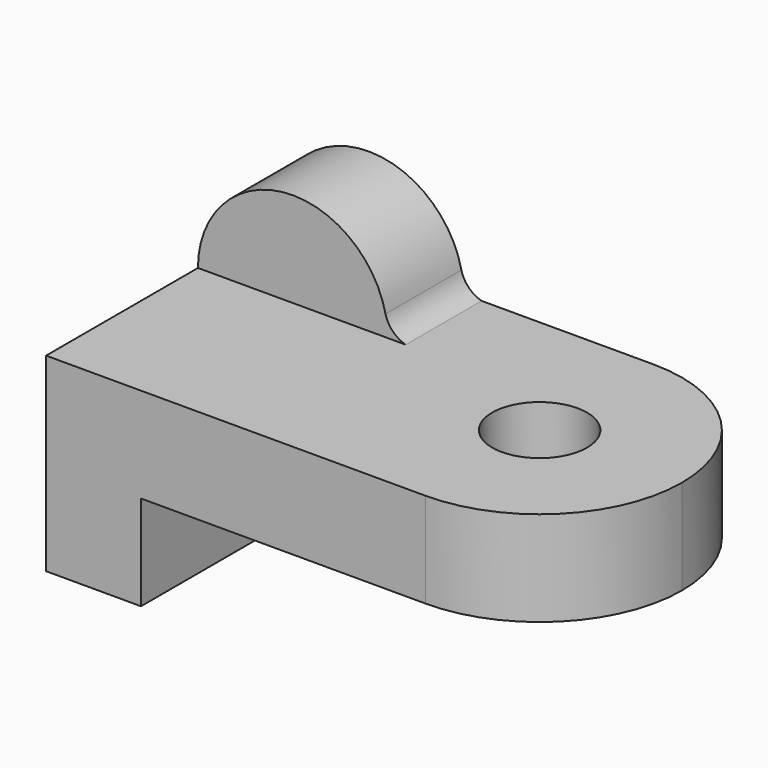
from build123d import *

# Parameters (mm, degrees)
F0_W     = 69.85
F0_H     = 38.1
F1_DEPTH = 12.7
F2_W     = 12.7
F2_H     = 12.7
F3_DEPTH = 38.1
F5_DEPTH = 12.7
F6_R     = 6.35
F7_DEPTH = 12.7
F9_DEPTH = 12.7


with BuildPart() as f1:
    # F0 (on Top) → F1 (new body)
    with BuildSketch(Plane.XY):
        with Locations((68.010411, -20.100126)):
            Rectangle(F0_W, F0_H)
    extrude(amount=F1_DEPTH)

    # F2 (on face) → F3 (join)
    with BuildSketch(Plane.XZ.offset(39.150126)):
        with Locations((39.435411, -6.35)):
            Rectangle(F2_W, F2_H)
    extrude(amount=-F3_DEPTH)

    # F4 (on face) → F5 (cut)
    with BuildSketch(Plane.XY.offset(12.7)):
        with BuildLine():
            ThreePointArc((83.885411, -1.050126), (97.355795, -6.629742), (102.935411, -20.100126))
            Line((102.935411, -20.100126), (102.935411, -1.050126))
            Line((102.935411, -1.050126), (83.885411, -1.050126))
        make_face()
        with BuildLine():
            Line((102.935411, -39.150126), (102.935411, -20.100126))
            ThreePointArc((102.935411, -20.100126), (97.355795, -33.57051), (83.885411, -39.150126))
            Line((83.885411, -39.150126), (102.935411, -39.150126))
        make_face()
    extrude(amount=-F5_DEPTH, mode=Mode.SUBTRACT)

    # F6 (on face) → F7 (cut)
    with BuildSketch(Plane.XY.offset(12.7)):
        with Locations((83.885411, -20.100126)):
            Circle(F6_R)
    extrude(amount=-F7_DEPTH, mode=Mode.SUBTRACT)

    # F8 (on face) → F9 (join)
    with BuildSketch(Plane(origin=(0, -1.050126, 0), x_dir=(-1, 0, 0), z_dir=(0, 1, 0))):
        with BuildLine():
            ThreePointArc((-58.485411, 12.7), (-58.409892, 14.082925), (-58.184233, 15.449404))
            ThreePointArc((-58.184233, 15.449404), (-59.164143, 13.706609), (-60.891655, 12.7))
            Line((-60.891655, 12.7), (-58.485411, 12.7))
        make_face()
        with BuildLine():
            Line((-58.485411, 12.7), (-33.085411, 12.7))
            ThreePointArc((-33.085411, 12.7), (-44.402486, 25.324481), (-58.184233, 15.449404))
            ThreePointArc((-58.184233, 15.449404), (-58.409892, 14.082925), (-58.485411, 12.7))
        make_face()
    extrude(amount=-F9_DEPTH)


solid = f1.part
